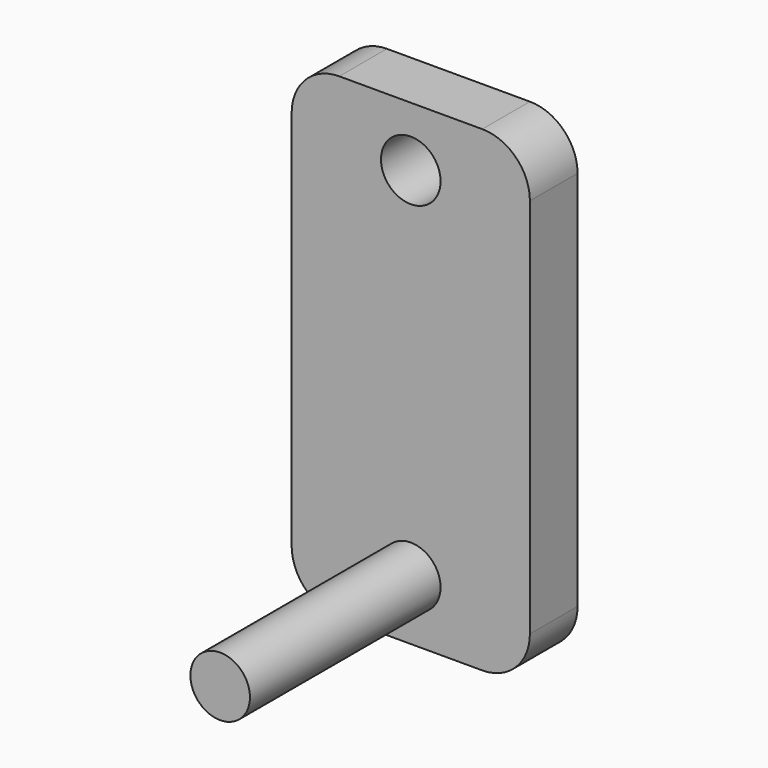
from build123d import *

# Parameters (mm, degrees)
F0_W     = 25.4
F0_H     = 50.8
F0_R     = 3.175
F1_DEPTH = 6.35
F2_R     = 5.08
F3_R     = 5.08
F4_R     = 5.08
F5_R     = 3.175
F6_DEPTH = 25.4


with BuildPart() as f1:
    # F0 (on Front) → F1 (new body)
    with BuildSketch(Plane.XZ):
        with Locations((12.7, -25.4)):
            Rectangle(F0_W, F0_H)
        with Locations((12.7, -6.35)):
            Circle(F0_R, mode=Mode.SUBTRACT)
    extrude(amount=F1_DEPTH)

    # F2
    f2_edges = [f1.edges().sort_by_distance(p)[0] for p in [
        (0, -3.175, 0),
    ]]
    fillet(f2_edges, radius=F2_R)

    # F3
    f3_edges = [f1.edges().sort_by_distance(p)[0] for p in [
        (25.4, -3.175, 0),
    ]]
    fillet(f3_edges, radius=F3_R)

    # F4
    f4_edges = [f1.edges().sort_by_distance(p)[0] for p in [
        (25.4, -3.175, -50.8),
        (0, -3.175, -50.8),
    ]]
    fillet(f4_edges, radius=F4_R)

    # F5 (on face) → F6 (join)
    with BuildSketch(Plane.XZ.offset(6.35)):
        with Locations((12.7, -44.45)):
            Circle(F5_R)
    extrude(amount=F6_DEPTH)


solid = f1.part
